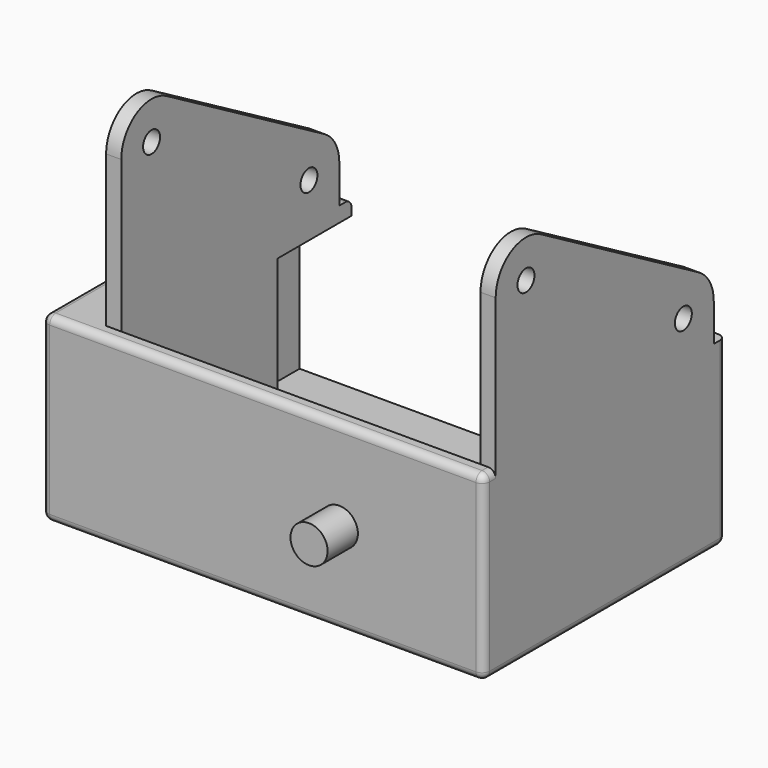
from build123d import *

# Parameters (mm, degrees)
SKETCH_W        = 54.3
SKETCH_H        = 38
PAD_DEPTH       = 2
SKETCH001_W     = 54.3
SKETCH001_H     = 2
PAD001_DEPTH    = 22
SKETCH002_R     = 2.45
PAD002_DEPTH    = 5
SKETCH003_W     = 40
SKETCH003_H     = 22
PAD003_DEPTH    = 2
SKETCH004_W     = 40
SKETCH004_H     = 22
PAD004_DEPTH    = 2
SKETCH005_W     = 6.85
SKETCH005_H     = 15
PAD005_DEPTH    = 8
SKETCH006_R     = 1.4
POCKET_DEPTH    = 15
FILLET_R        = 3
FILLET001_R     = 2
SKETCH007_W     = 6.85
SKETCH007_H     = 25.8
PAD006_DEPTH    = 20
SKETCH008_R     = 1.4
POCKET001_DEPTH = 15
PAD007_DEPTH    = 2
SKETCH010_R     = 1.4
PAD008_DEPTH    = 2
SKETCH011_R     = 1.4
PAD009_DEPTH    = 2
FILLET002_R     = 1
FILLET003_R     = 1
FILLET004_R     = 1
FILLET005_R     = 1
FILLET006_R     = 1


with BuildPart() as part:
    # Sketch → Pad (new body)
    with BuildSketch(Plane.XY):
        with Locations((27.15, 21)):
            Rectangle(SKETCH_W, SKETCH_H)
    extrude(amount=PAD_DEPTH)

    # Sketch001 → Pad001 (join)
    with BuildSketch(Plane.XY):
        with Locations((27.15, 1)):
            Rectangle(SKETCH001_W, SKETCH001_H)
    extrude(amount=PAD001_DEPTH)

    # Sketch002 → Pad002 (join)
    with BuildSketch(Plane.XZ):
        with Locations((37.25, 12)):
            Circle(SKETCH002_R)
    extrude(amount=PAD002_DEPTH)

    # Sketch003 (on Face2 of Pad002) → Pad003 (join)
    with BuildSketch(Plane(origin=(0, 0, 0), x_dir=(0, -1, 0), z_dir=(-1, 0, 0))):
        with Locations((-20, 11)):
            Rectangle(SKETCH003_W, SKETCH003_H)
    extrude(amount=PAD003_DEPTH)

    # Sketch004 (on Face3 of Pad003) → Pad004 (join)
    with BuildSketch(Plane.YZ.offset(54.3)):
        with Locations((20, 11)):
            Rectangle(SKETCH004_W, SKETCH004_H)
    extrude(amount=PAD004_DEPTH)

    # Sketch005 (on Face5 of Pad004) → Pad005 (join)
    with BuildSketch(Plane.XY.offset(2)):
        with Locations((50.875, 20.3)):
            Rectangle(SKETCH005_W, SKETCH005_H)
    extrude(amount=PAD005_DEPTH)

    # Sketch006 (on Face15 of Pad005) → Pocket (cut)
    with BuildSketch(Plane(origin=(0, 27.8, 0), x_dir=(-1, 0, 0), z_dir=(0, 1, 0))):
        with Locations((-51.3, 7)):
            Circle(SKETCH006_R)
    extrude(amount=-POCKET_DEPTH, mode=Mode.SUBTRACT)

    # Fillet
    fillet_edges = [part.edges().sort_by_distance(p)[0] for p in [
        (47.45, 20.3, 10),
    ]]
    fillet(fillet_edges, radius=FILLET_R)

    # Fillet001
    fillet001_edges = [part.edges().sort_by_distance(p)[0] for p in [
        (52.375, 12.8, 10),
    ]]
    fillet(fillet001_edges, radius=FILLET001_R)

    # Sketch007 (on Face5 of Fillet001) → Pad006 (join)
    with BuildSketch(Plane.XY.offset(2)):
        with Locations((3.425, 14.9)):
            Rectangle(SKETCH007_W, SKETCH007_H)
    extrude(amount=PAD006_DEPTH)

    # Sketch008 (on Face14 of Pad006) → Pocket001 (cut)
    with BuildSketch(Plane(origin=(0, 27.8, 0), x_dir=(-1, 0, 0), z_dir=(0, 1, 0))):
        with Locations((-3, 7)):
            Circle(SKETCH008_R)
        with Locations((-3, 17)):
            Circle(SKETCH008_R)
    extrude(amount=-POCKET001_DEPTH, mode=Mode.SUBTRACT)

    # Sketch009 (on Face21 of Pocket001) → Pad007 (join)
    with BuildSketch(Plane.XY.offset(22)):
        Polygon((54.3, 2), (54.3, 40), (56.3, 40), (56.3, 0), (-2, 0), (-2, 40), (6.85, 40), (6.85, 2), align=None)
    extrude(amount=PAD007_DEPTH)

    # Sketch010 (on Face22 of Pad007) → Pad008 (join)
    with BuildSketch(Plane.YZ.offset(6.85)):
        with BuildLine():
            Line((2, 24), (38, 24))
            Line((38, 29), (38, 24))
            ThreePointArc((38, 29), (37.326745, 31.511013), (35.487593, 33.348396))
            Line((35.487593, 33.348396), (9.497223, 48.331729))
            ThreePointArc((9.497223, 48.331729), (4.498612, 48.329325), (2, 44))
            Line((2, 44), (2, 24))
        make_face()
        with Locations((7, 44)):
            Circle(SKETCH010_R, mode=Mode.SUBTRACT)
        with Locations((32.980762, 29)):
            Circle(SKETCH010_R, mode=Mode.SUBTRACT)
    extrude(amount=-PAD008_DEPTH)

    # Sketch011 (on Face20 of Pad008) → Pad009 (join)
    with BuildSketch(Plane(origin=(54.3, 0, 0), x_dir=(0, -1, 0), z_dir=(-1, 0, 0))):
        with BuildLine():
            Line((-38, 24), (-38, 29))
            ThreePointArc((-35.487593, 33.348396), (-37.326745, 31.511013), (-38, 29))
            Line((-35.487593, 33.348396), (-9.497223, 48.331729))
            ThreePointArc((-2, 44), (-4.498612, 48.329325), (-9.497223, 48.331729))
            Line((-2, 44), (-2, 24))
            Line((-2, 24), (-38, 24))
        make_face()
        with Locations((-7, 44)):
            Circle(SKETCH011_R, mode=Mode.SUBTRACT)
        with Locations((-32.980762, 29)):
            Circle(SKETCH011_R, mode=Mode.SUBTRACT)
    extrude(amount=-PAD009_DEPTH)

    # Fillet002
    fillet002_edges = [part.edges().sort_by_distance(p)[0] for p in [
        (-2, 20, 0),
    ]]
    fillet(fillet002_edges, radius=FILLET002_R)

    # Fillet003
    fillet003_edges = [part.edges().sort_by_distance(p)[0] for p in [
        (27.15, 0, 0),
    ]]
    fillet(fillet003_edges, radius=FILLET003_R)

    # Fillet004
    fillet004_edges = [part.edges().sort_by_distance(p)[0] for p in [
        (27.15, 40, 0),
    ]]
    fillet(fillet004_edges, radius=FILLET004_R)

    # Fillet005
    fillet005_edges = [part.edges().sort_by_distance(p)[0] for p in [
        (56.3, 20, 0),
    ]]
    fillet(fillet005_edges, radius=FILLET005_R)

    # Fillet006
    fillet006_edges = [part.edges().sort_by_distance(p)[0] for p in [
        (27.15, 0, 24),
    ]]
    fillet(fillet006_edges, radius=FILLET006_R)


solid = part.part
